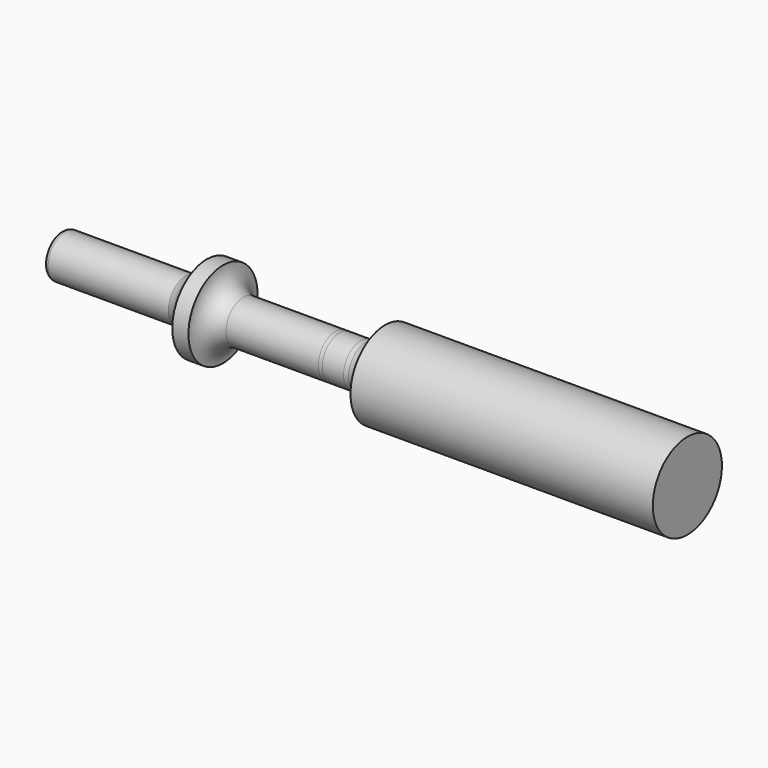
from build123d import *

# Parameters (mm, degrees)
F2_R = 1.27


with BuildPart() as f1:
    # F0 (on Front) → F1 (revolve)
    with BuildSketch(Plane.XZ):
        with BuildLine():
            Line((-80.694937, 6.35), (-80.694937, 0))
            Line((-80.694937, 0), (103.455063, 0))
            Line((103.455063, 0), (103.455063, 12.7))
            Line((103.455063, 12.7), (20.905063, 12.7))
            Line((20.905063, 12.7), (14.555063, 12.7))
            ThreePointArc((14.555063, 12.7), (12.929479, 8.441738), (8.879793, 6.35))
            ThreePointArc((8.879793, 6.35), (8.164954, 6.309891), (7.450115, 6.35))
            Line((7.450115, 6.35), (1.168367, 6.35))
            ThreePointArc((1.168367, 6.35), (0.584183, 6.340787), (0, 6.35))
            Line((0, 6.35), (-27.134567, 6.35))
            ThreePointArc((-27.134567, 6.35), (-31.371674, 8.345311), (-33.095337, 12.7))
            Line((-33.095337, 12.7), (-37.845137, 12.7))
            ThreePointArc((-37.845137, 12.7), (-40.144928, 8.718726), (-44.085577, 6.35))
            Line((-44.085577, 6.35), (-80.694937, 6.35))
        make_face()
    revolve(axis=Axis((11.380063, 0, 0), (1, 0, 0)))

    # F2
    f2_edges = [f1.edges().sort_by_distance(p)[0] for p in [
        (-80.694937, 0, -6.35),
    ]]
    fillet(f2_edges, radius=F2_R)


solid = f1.part
